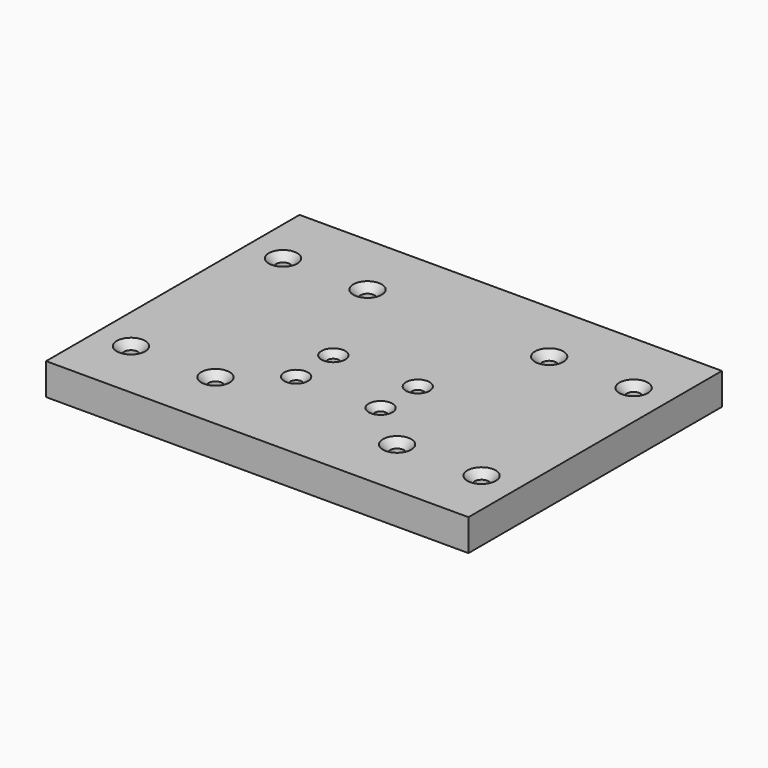
from build123d import *

# Parameters (mm, degrees)
F0_W           = 200
F0_H           = 150
F1_DEPTH       = 15
F3_D           = 6.6
F3_CSINK_D     = 13.44
F3_CSINK_ANGLE = 90
F4_D           = 5.5
F4_CSINK_D     = 11.2
F4_CSINK_ANGLE = 90


with BuildPart() as f1:
    # F0 (on Top) → F1 (new body)
    with BuildSketch(Plane.XY):
        Rectangle(F0_W, F0_H)
    extrude(amount=F1_DEPTH)

    # F3 (through all)
    with Locations(Plane.XY.offset(15)):
        with Locations((-83, 44), (-43, 44), (-83, -46), (-43, -46), (43, 44), (83, 44), (43, -46), (83, -46)):
            CounterSinkHole(F3_D / 2, F3_CSINK_D / 2, counter_sink_angle=F3_CSINK_ANGLE)

    # F4 (through all)
    with Locations(Plane.XY.offset(15)):
        with Locations((-20, -27), (-20, -5), (20, -5), (20, -27)):
            CounterSinkHole(F4_D / 2, F4_CSINK_D / 2, counter_sink_angle=F4_CSINK_ANGLE)


solid = f1.part
